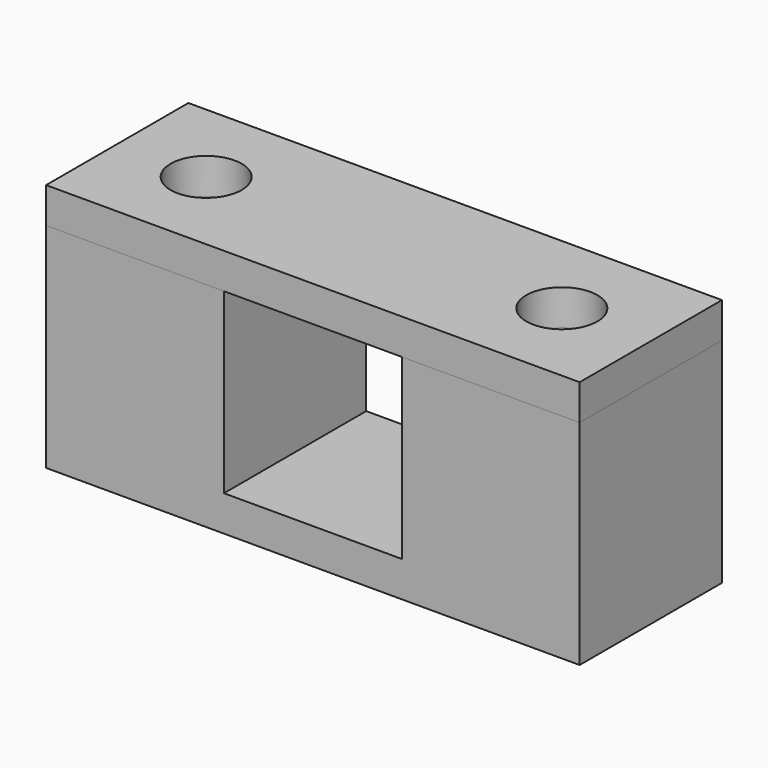
from build123d import *

# Parameters (mm, degrees)
SKETCH_W        = 15
SKETCH_H        = 5
PAD_DEPTH       = 1
SKETCH001_W     = 5
SKETCH001_H     = 5
PAD001_DEPTH    = 5
SKETCH002_R     = 1
POCKET_DEPTH    = 5
SKETCH003_W     = 15
SKETCH003_H     = 5
PAD002_DEPTH    = 1
SKETCH004_R     = 1
POCKET001_DEPTH = 32.686959


with BuildPart() as body:
    # Sketch → Pad (new body)
    with BuildSketch(Plane.XY):
        Rectangle(SKETCH_W, SKETCH_H)
    extrude(amount=PAD_DEPTH)

    # Sketch001 (on Face6 of Pad) → Pad001 (join)
    with BuildSketch(Plane.XY.offset(1)):
        with Locations((-5, 0)):
            Rectangle(SKETCH001_W, SKETCH001_H)
    pad001 = extrude(amount=PAD001_DEPTH)

    # Sketch002 (on Face10 of Pad001) → Pocket (cut)
    with BuildSketch(Plane.XY.offset(6)):
        with Locations((-5, 0)):
            Circle(SKETCH002_R)
    pocket = extrude(amount=-POCKET_DEPTH, mode=Mode.SUBTRACT)

    # Mirrored: Pad001 across Sketch001 V_Axis
    add(pad001.mirror(Plane(origin=(0, 0, 1), x_dir=(0, 0, 1), z_dir=(1, 0, 0))))

    # Mirrored001: Pocket across Sketch002 V_Axis
    add(pocket.mirror(Plane(origin=(0, 0, 6), x_dir=(0, 0, 1), z_dir=(1, 0, 0))), mode=Mode.SUBTRACT)


with BuildPart() as body001:
    # Sketch003 → Pad002 (new body)
    with BuildSketch(Plane.XY):
        Rectangle(SKETCH003_W, SKETCH003_H)
    extrude(amount=PAD002_DEPTH)

    # Sketch004 (on Face6 of Pad002) → Pocket001 (cut, through all)
    with BuildSketch(Plane.XY.offset(1)):
        with Locations((-5, 0)):
            Circle(SKETCH004_R)
    pocket001 = extrude(amount=-POCKET001_DEPTH, mode=Mode.SUBTRACT)

    # Mirrored002: Pocket001 across Sketch004 V_Axis
    add(pocket001.mirror(Plane(origin=(0, 0, 1), x_dir=(0, 0, 1), z_dir=(1, 0, 0))), mode=Mode.SUBTRACT)


with BuildPart() as body001_1:
    # Body001 placement: moved
    add(body001.part.moved(Location((0, 0, 6))))


solid = Compound([body.part, body001_1.part])
